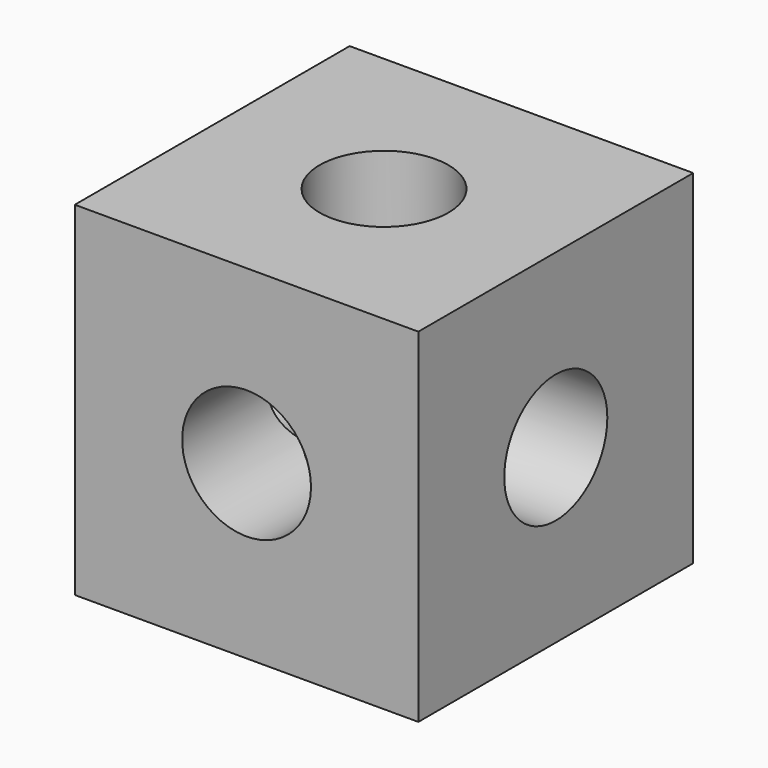
from build123d import *

# Parameters (mm, degrees)
F0_W     = 50.8
F0_H     = 50.8
F0_R     = 9.525
F1_DEPTH = 50.8
F2_R     = 9.525
F3_DEPTH = 50.8
F4_R     = 9.525
F5_DEPTH = 50.8


with BuildPart() as f1:
    # F0 (on Front) → F1 (new body)
    with BuildSketch(Plane.XZ):
        with Locations((0, -4.425067)):
            Rectangle(F0_W, F0_H)
        with Locations((0, -4.425067)):
            Circle(F0_R, mode=Mode.SUBTRACT)
    extrude(amount=F1_DEPTH)

    # F2 (on face) → F3 (cut)
    with BuildSketch(Plane(origin=(0, 0, -29.825067), x_dir=(1, 0, 0), z_dir=(0, 0, -1))):
        with Locations((0, 25.4)):
            Circle(F2_R)
    extrude(amount=-F3_DEPTH, mode=Mode.SUBTRACT)

    # F4 (on face) → F5 (cut)
    with BuildSketch(Plane.YZ.offset(25.4)):
        with Locations((-25.4, -4.425067)):
            Circle(F4_R)
    extrude(amount=-F5_DEPTH, mode=Mode.SUBTRACT)


solid = f1.part
